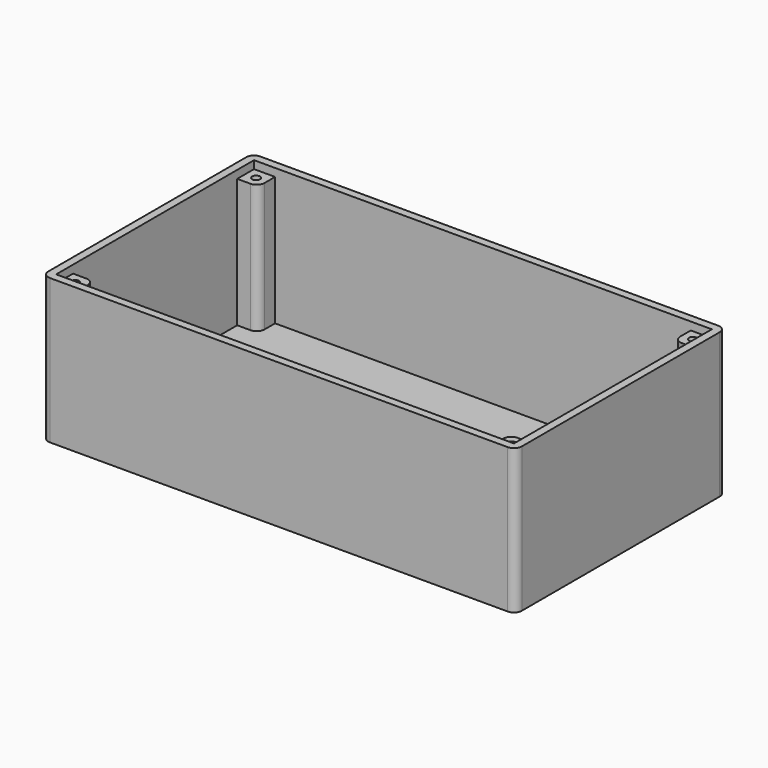
from build123d import *

# Parameters (mm, degrees)
SKETCH_W        = 180
SKETCH_H        = 100
PAD_DEPTH       = 55
THICKNESS_T     = -3
SKETCH001_R     = 4
POCKET_DEPTH    = 16
PAD004_START    = -8
SKETCH005_W     = 8
SKETCH005_H     = 8
SKETCH005_R     = 1.5
PAD004_DEPTH    = 49
SKETCH008_W     = 2
SKETCH008_H     = 8
POCKET002_DEPTH = 3
FILLET_R        = 3
FILLET001_R     = 3


with BuildPart() as part:
    # Sketch (on XY_Plane of Origin) → Pad (new body)
    with BuildSketch(Plane.XY):
        with Locations((90, 50)):
            Rectangle(SKETCH_W, SKETCH_H)
    extrude(amount=PAD_DEPTH)

    # Thickness
    thickness_openings = [part.faces().sort_by_distance(p)[0] for p in [
        (90, 50, 55),
    ]]
    offset(amount=THICKNESS_T, openings=thickness_openings)

    # Sketch001 (on YZ_Plane of Origin) → Pocket (cut)
    with BuildSketch(Plane.YZ):
        with Locations((43, 9)):
            Circle(SKETCH001_R)
    extrude(amount=POCKET_DEPTH, mode=Mode.SUBTRACT)

    # Sketch005 → Pad004 (join)
    with BuildSketch(Plane.XY.offset(60).offset(PAD004_START)):
        with Locations((7, 93)):
            Rectangle(SKETCH005_W, SKETCH005_H)
        with Locations((7, 93)):
            Circle(SKETCH005_R, mode=Mode.SUBTRACT)
        with Locations((173, 7)):
            Rectangle(SKETCH005_W, SKETCH005_H)
        with Locations((173, 7)):
            Circle(SKETCH005_R, mode=Mode.SUBTRACT)
        with Locations((173, 93)):
            Rectangle(SKETCH005_W, SKETCH005_H)
        with Locations((173, 93)):
            Circle(SKETCH005_R, mode=Mode.SUBTRACT)
        with Locations((7, 7)):
            Rectangle(SKETCH005_W, SKETCH005_H)
        with Locations((7, 7)):
            Circle(SKETCH005_R, mode=Mode.SUBTRACT)
    extrude(amount=-PAD004_DEPTH)

    # Sketch008 (on Face14 of Pad004) → Pocket002 (cut)
    with BuildSketch(Plane.XY.offset(3)):
        with Locations((148, 78)):
            Rectangle(SKETCH008_W, SKETCH008_H)
    extrude(amount=-POCKET002_DEPTH, mode=Mode.SUBTRACT)

    # Fillet
    fillet_edges = [part.edges().sort_by_distance(p)[0] for p in [
        (11, 11, 27.5),
        (169, 11, 27.5),
        (169, 89, 27.5),
        (11, 89, 27.5),
    ]]
    fillet(fillet_edges, radius=FILLET_R)

    # Fillet001
    fillet001_edges = [part.edges().sort_by_distance(p)[0] for p in [
        (180, 0, 27.5),
        (180, 100, 27.5),
        (0, 0, 27.5),
        (0, 100, 27.5),
    ]]
    fillet(fillet001_edges, radius=FILLET001_R)


solid = part.part
